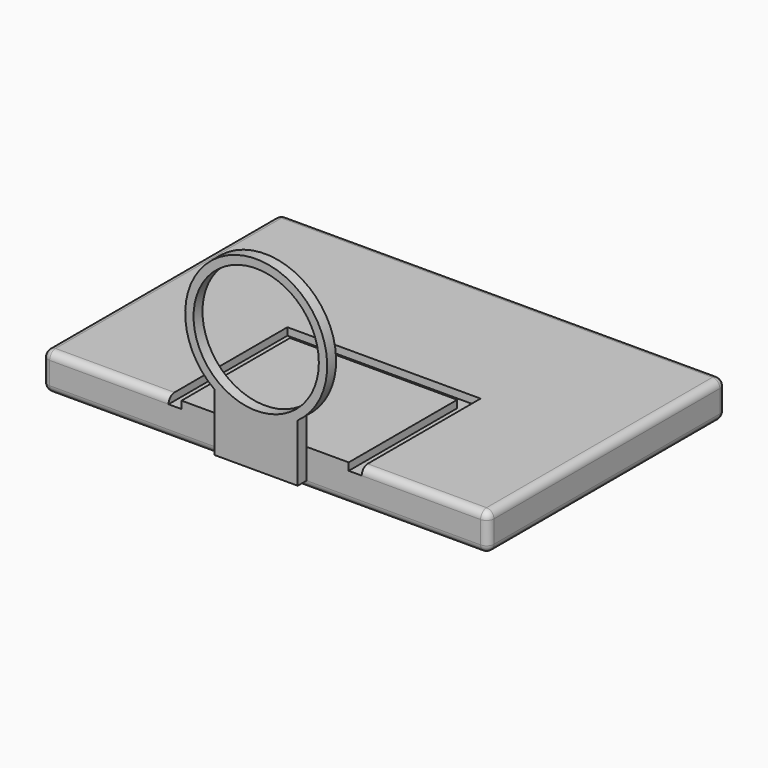
from build123d import *

# Parameters (mm, degrees)
F1_DEPTH = 10
F3_DEPTH = 2
F4_R     = 2
F5_R     = 16.8618746788
F6_DEPTH = 3


with BuildPart() as f1:
    # F0 (on Top) → F1 (new body)
    with BuildSketch(Plane.XY):
        Polygon((60, 40), (-60, 40), (-60, -40), (-25.860209018, -40), (-25.860209018, 0), (-25.860209018, 3.5), (26, 3.5), (26, 0), (26, -40), (60, -40), align=None)
        Polygon((-25.860209018, 0), (-25.860209018, -40), (-22.360209018, -40), (-22.360209018, 0), (0, 0), (22.5, 0), (22.5, -40), (26, -40), (26, 0), (26, 3.5), (-25.860209018, 3.5), align=None)
        Polygon((-22.360209018, 0), (-22.360209018, -40), (22.5, -40), (22.5, 0), (0, 0), align=None)
    extrude(amount=-F1_DEPTH)

    # F2 (on face) → F3 (cut)
    with BuildSketch(Plane.XY):
        Polygon((0, -3.5), (0, 0), (-26, 0), (-26, -40), (-22.5, -40), (-22.5, -3.5), align=None)
        Polygon((26, 0), (0, 0), (0, -3.5), (22.5, -3.5), (22.5, -40), (26, -40), align=None)
    extrude(amount=-F3_DEPTH, mode=Mode.SUBTRACT)

    # F4
    f4_edges = [f1.edges().sort_by_distance(p)[0] for p in [
        (0, 40, 0),
        (-60, 0, 0),
        (60, 0, 0),
        (43, -40, 0),
        (-43, -40, 0),
        (60, -40, -5),
        (60, 0, -10),
        (60, 40, -5),
        (0, 40, -10),
        (-60, 40, -5),
        (-60, 0, -10),
        (0, -40, -10),
        (-60, -40, -5),
    ]]
    fillet(f4_edges, radius=F4_R)


with BuildPart() as f6:
    # F5 (on face) → F6 (new body)
    with BuildSketch(Plane.XZ.offset(40)):
        with BuildLine():
            ThreePointArc((11.1809549564, 7.5), (0, 3.8881253212), (-11.1809549564, 7.5))
            Line((-11.1809549564, 7.5), (-11.1809549564, 0))
            Line((-11.1809549564, 0), (0, 0))
            Line((0, 0), (11.1809549564, 0))
            Line((11.1809549564, 0), (11.1809549564, 7.5))
        make_face()
        with BuildLine():
            ThreePointArc((11.1809549564, 7.5), (17.014005461, 14.2944057118), (19.1118746788, 23))
            ThreePointArc((19.1118746788, 23), (-8.7055942882, 40.014005461), (-11.1809549564, 7.5))
            ThreePointArc((-11.1809549564, 7.5), (0, 3.8881253212), (11.1809549564, 7.5))
        make_face()
        with Locations((0, 23)):
            Circle(F5_R, mode=Mode.SUBTRACT)
        Polygon((0, 0), (-11.1809549564, 0), (-11.1809549564, -8), (11.1809549564, -8), (11.1809549564, 0), align=None)
    extrude(amount=F6_DEPTH)


solid = Compound([f1.part, f6.part])
